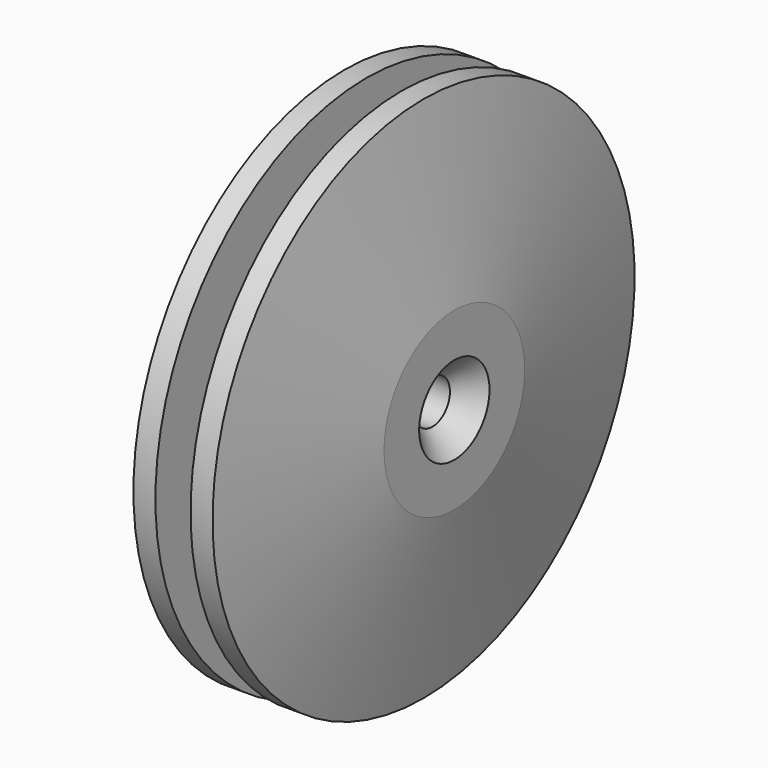
from build123d import *

# Parameters (mm, degrees)
F2_R     = 1.5875
F3_DEPTH = 12.7
F4_SIZE  = 1.5875


with BuildPart() as f1:
    # F0 (on Front) → F1 (revolve)
    with BuildSketch(Plane.XZ):
        Polygon((1.27, 12.7), (0, 12.7), (-1.27, 12.7), (-1.27, 19.05), (-2.8575, 19.05), (-5.08, 6.35), (-5.08, 0), (5.08, 0), (5.08, 6.35), (2.8575, 19.05), (1.27, 19.05), align=None)
    revolve(axis=Axis((0, 0, 0), (-1, 0, 0)))

    # F2 (on Right) → F3 (cut, symmetric)
    with BuildSketch(Plane.YZ):
        Circle(F2_R)
    extrude(amount=F3_DEPTH, both=True, mode=Mode.SUBTRACT)

    # F4
    f4_edges = [f1.edges().sort_by_distance(p)[0] for p in [
        (5.08, -1.5875, 0),
        (-5.08, -1.5875, 0),
    ]]
    chamfer(f4_edges, length=F4_SIZE)


solid = f1.part
